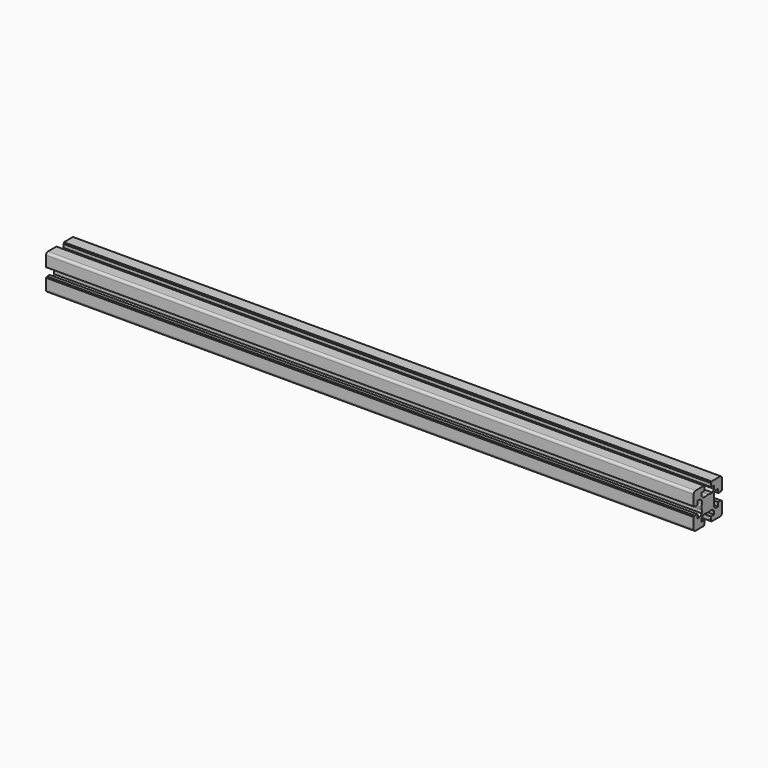
from build123d import *

# Parameters (mm, degrees)
F1_DEPTH = 825.5


with BuildPart() as f1:
    # F0 (on Right) → F1 (new body)
    with BuildSketch(Plane.YZ):
        with BuildLine():
            Line((-20.088481, -9.788837), (-20.088481, -10.288837))
            Line((-20.088481, -10.288837), (-21.28859, -10.288837))
            ThreePointArc((-21.28859, -10.288837), (-21.500722, -10.376705), (-21.58859, -10.588837))
            Line((-21.58859, -10.588837), (-21.58859, -23.988949))
            ThreePointArc((-21.58859, -23.988949), (-20.70991, -26.11027), (-18.58859, -26.988949))
            Line((-18.58859, -26.988949), (-5.188544, -26.988949))
            ThreePointArc((-5.188544, -26.988949), (-4.976411, -26.901081), (-4.888544, -26.688949))
            Line((-4.888544, -26.688949), (-4.888544, -25.488841))
            Line((-4.888544, -25.488841), (-4.388544, -25.488841))
            ThreePointArc((-4.388544, -25.488841), (-4.176411, -25.400973), (-4.088544, -25.188841))
            Line((-4.088544, -25.188841), (-4.088544, -21.288841))
            ThreePointArc((-4.088544, -21.288841), (-4.176411, -21.076709), (-4.388544, -20.988841))
            Line((-4.388544, -20.988841), (-9.138663, -20.988841))
            Line((-9.138663, -20.988841), (-9.138663, -16.881665))
            Line((-9.138663, -16.881665), (-6.245729, -13.988731))
            Line((-6.245729, -13.988731), (-2.211433, -13.988731))
            ThreePointArc((-2.211433, -13.988731), (-0.669869, -14.363044), (0.91149, -14.48887))
            Line((0.91149, -14.48887), (0.91149, -4.48887))
            Line((0.91149, -4.48887), (-9.08851, -4.48887))
            ThreePointArc((-9.08851, -4.48887), (-8.962684, -6.070229), (-8.588371, -7.611793))
            Line((-8.588371, -7.611793), (-8.588371, -11.646022))
            Line((-8.588371, -11.646022), (-11.481305, -14.538956))
            Line((-11.481305, -14.538956), (-15.588481, -14.538956))
            Line((-15.588481, -14.538956), (-15.588481, -9.788837))
            ThreePointArc((-15.588481, -9.788837), (-15.676349, -9.576705), (-15.888481, -9.488837))
            Line((-15.888481, -9.488837), (-19.788481, -9.488837))
            ThreePointArc((-19.788481, -9.488837), (-20.000613, -9.576705), (-20.088481, -9.788837))
        make_face()
        with BuildLine():
            ThreePointArc((-8.588371, -1.365947), (-8.962684, -2.907511), (-9.08851, -4.48887))
            Line((-9.08851, -4.48887), (0.91149, -4.48887))
            Line((0.91149, -4.48887), (0.91149, 5.51113))
            ThreePointArc((0.91149, 5.51113), (-0.669869, 5.385303), (-2.211433, 5.010991))
            Line((-2.211433, 5.010991), (-6.245729, 5.010991))
            Line((-6.245729, 5.010991), (-9.138663, 7.903925))
            Line((-9.138663, 7.903925), (-9.138663, 12.011101))
            Line((-9.138663, 12.011101), (-4.388544, 12.011101))
            ThreePointArc((-4.388544, 12.011101), (-4.176411, 12.098969), (-4.088544, 12.311101))
            Line((-4.088544, 12.311101), (-4.088544, 16.211101))
            ThreePointArc((-4.088544, 16.211101), (-4.176411, 16.423233), (-4.388544, 16.511101))
            Line((-4.388544, 16.511101), (-4.888544, 16.511101))
            Line((-4.888544, 16.511101), (-4.888544, 17.711209))
            ThreePointArc((-4.888544, 17.711209), (-4.976411, 17.923341), (-5.188544, 18.011209))
            Line((-5.188544, 18.011209), (-18.58859, 18.011209))
            ThreePointArc((-18.58859, 18.011209), (-20.70991, 17.13253), (-21.58859, 15.011209))
            Line((-21.58859, 15.011209), (-21.58859, 1.611097))
            ThreePointArc((-21.58859, 1.611097), (-21.500722, 1.398965), (-21.28859, 1.311097))
            Line((-21.28859, 1.311097), (-20.088481, 1.311097))
            Line((-20.088481, 1.311097), (-20.088481, 0.811097))
            ThreePointArc((-20.088481, 0.811097), (-20.000613, 0.598965), (-19.788481, 0.511097))
            Line((-19.788481, 0.511097), (-15.888481, 0.511097))
            ThreePointArc((-15.888481, 0.511097), (-15.676349, 0.598965), (-15.588481, 0.811097))
            Line((-15.588481, 0.811097), (-15.588481, 5.561216))
            Line((-15.588481, 5.561216), (-11.481305, 5.561216))
            Line((-11.481305, 5.561216), (-8.588371, 2.668282))
            Line((-8.588371, 2.668282), (-8.588371, -1.365947))
        make_face()
        with BuildLine():
            Line((0.91149, 5.51113), (0.91149, -4.48887))
            Line((0.91149, -4.48887), (10.91149, -4.48887))
            ThreePointArc((10.91149, -4.48887), (10.785663, -2.907511), (10.41135, -1.365947))
            Line((10.41135, -1.365947), (10.41135, 2.668282))
            Line((10.41135, 2.668282), (13.304285, 5.561216))
            Line((13.304285, 5.561216), (14.016842, 5.561216))
            Line((14.016842, 5.561216), (17.41146, 5.561216))
            Line((17.41146, 5.561216), (17.41146, 0.811097))
            ThreePointArc((17.41146, 0.811097), (17.499328, 0.598965), (17.71146, 0.511097))
            Line((17.71146, 0.511097), (21.61146, 0.511097))
            ThreePointArc((21.61146, 0.511097), (21.823593, 0.598965), (21.91146, 0.811097))
            Line((21.91146, 0.811097), (21.91146, 1.311097))
            Line((21.91146, 1.311097), (23.111569, 1.311097))
            ThreePointArc((23.111569, 1.311097), (23.323701, 1.398965), (23.411569, 1.611097))
            Line((23.411569, 1.611097), (23.411569, 15.011209))
            ThreePointArc((23.411569, 15.011209), (22.532889, 17.13253), (20.411569, 18.011209))
            Line((20.411569, 18.011209), (7.011523, 18.011209))
            ThreePointArc((7.011523, 18.011209), (6.799391, 17.923341), (6.711523, 17.711209))
            Line((6.711523, 17.711209), (6.711523, 16.511101))
            Line((6.711523, 16.511101), (6.211523, 16.511101))
            ThreePointArc((6.211523, 16.511101), (5.999391, 16.423233), (5.911523, 16.211101))
            Line((5.911523, 16.211101), (5.911523, 12.311101))
            ThreePointArc((5.911523, 12.311101), (5.999391, 12.098969), (6.211523, 12.011101))
            Line((6.211523, 12.011101), (10.961642, 12.011101))
            Line((10.961642, 12.011101), (10.961642, 7.903925))
            Line((10.961642, 7.903925), (8.068708, 5.010991))
            Line((8.068708, 5.010991), (4.034413, 5.010991))
            ThreePointArc((4.034413, 5.010991), (2.492849, 5.385303), (0.91149, 5.51113))
        make_face()
        with BuildLine():
            Line((10.91149, -4.48887), (0.91149, -4.48887))
            Line((0.91149, -4.48887), (0.91149, -14.48887))
            ThreePointArc((0.91149, -14.48887), (2.492849, -14.363044), (4.034413, -13.988731))
            Line((4.034413, -13.988731), (8.068708, -13.988731))
            Line((8.068708, -13.988731), (10.961642, -16.881665))
            Line((10.961642, -16.881665), (10.961642, -20.988841))
            Line((10.961642, -20.988841), (6.211523, -20.988841))
            ThreePointArc((6.211523, -20.988841), (5.999391, -21.076709), (5.911523, -21.288841))
            Line((5.911523, -21.288841), (5.911523, -25.188841))
            ThreePointArc((5.911523, -25.188841), (5.999391, -25.400973), (6.211523, -25.488841))
            Line((6.211523, -25.488841), (6.711523, -25.488841))
            Line((6.711523, -25.488841), (6.711523, -26.688949))
            ThreePointArc((6.711523, -26.688949), (6.799391, -26.901081), (7.011523, -26.988949))
            Line((7.011523, -26.988949), (20.411569, -26.988949))
            ThreePointArc((20.411569, -26.988949), (22.532889, -26.11027), (23.411569, -23.988949))
            Line((23.411569, -23.988949), (23.411569, -10.588837))
            ThreePointArc((23.411569, -10.588837), (23.323701, -10.376705), (23.111569, -10.288837))
            Line((23.111569, -10.288837), (21.91146, -10.288837))
            Line((21.91146, -10.288837), (21.91146, -9.788837))
            ThreePointArc((21.91146, -9.788837), (21.823593, -9.576705), (21.61146, -9.488837))
            Line((21.61146, -9.488837), (17.71146, -9.488837))
            ThreePointArc((17.71146, -9.488837), (17.499328, -9.576705), (17.41146, -9.788837))
            Line((17.41146, -9.788837), (17.41146, -14.538956))
            Line((17.41146, -14.538956), (13.304285, -14.538956))
            Line((13.304285, -14.538956), (10.41135, -11.646022))
            Line((10.41135, -11.646022), (10.41135, -7.611793))
            ThreePointArc((10.41135, -7.611793), (10.785663, -6.070229), (10.91149, -4.48887))
        make_face()
    extrude(amount=F1_DEPTH)


solid = f1.part
